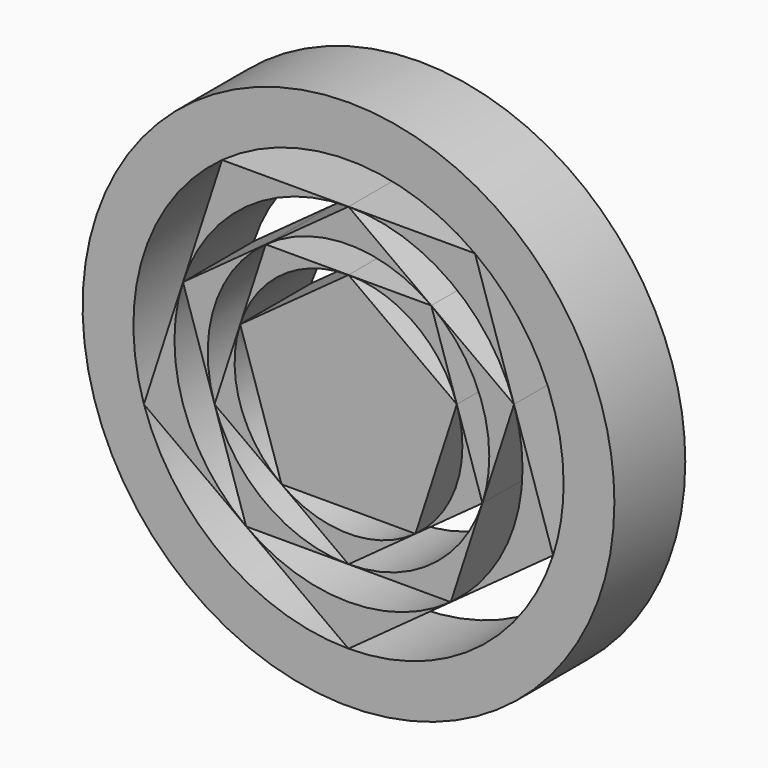
from build123d import *

# Parameters (mm, degrees)
F1_DEPTH = 25.4


with BuildPart() as f1:
    # F0 (on Front) → F1 (new body)
    with BuildSketch(Plane.XZ):
        with BuildLine():
            ThreePointArc((44.7892362247, -61.6470949714), (67.8946971432, -34.5940760802), (76.2, 0))
            ThreePointArc((76.2, 0), (75.2618515533, 11.9203062361), (72.4705065417, 23.5470949714))
            Line((72.4705065417, 23.5470949714), (58.6298713832, -19.05))
            Line((58.6298713832, -19.05), (44.7892362247, -61.6470949714))
        make_face()
        with BuildLine():
            Line((36.2352532708, 49.8735474857), (72.4705065417, 23.5470949714))
            ThreePointArc((72.4705065417, 23.5470949714), (44.7892362247, 61.6470949714), (0, 76.2))
            Line((0, 76.2), (36.2352532708, 49.8735474857))
        make_face()
        with BuildLine():
            Line((58.6298713832, -19.05), (72.4705065417, 23.5470949714))
            Line((72.4705065417, 23.5470949714), (36.2352532708, 49.8735474857))
            ThreePointArc((36.2352532708, 49.8735474857), (54.9279638168, 27.9871954535), (61.6470949714, 0))
            ThreePointArc((61.6470949714, 0), (60.8881169348, -9.6437303231), (58.6298713832, -19.05))
        make_face()
        with BuildLine():
            Line((0, -61.6470949714), (44.7892362247, -61.6470949714))
            Line((44.7892362247, -61.6470949714), (58.6298713832, -19.05))
            ThreePointArc((58.6298713832, -19.05), (36.2352532708, -49.8735474857), (0, -61.6470949714))
        make_face()
        with BuildLine():
            ThreePointArc((-44.7892362247, -61.6470949714), (0, -76.2), (44.7892362247, -61.6470949714))
            Line((44.7892362247, -61.6470949714), (0, -61.6470949714))
            Line((0, -61.6470949714), (-44.7892362247, -61.6470949714))
        make_face()
        with BuildLine():
            Line((-36.2352532708, 49.8735474857), (0, 76.2))
            ThreePointArc((0, 76.2), (-44.7892362247, 61.6470949714), (-72.4705065417, 23.5470949714))
            Line((-72.4705065417, 23.5470949714), (-36.2352532708, 49.8735474857))
        make_face()
        with BuildLine():
            Line((36.2352532708, 49.8735474857), (0, 76.2))
            Line((0, 76.2), (-36.2352532708, 49.8735474857))
            ThreePointArc((-36.2352532708, 49.8735474857), (0, 61.6470949714), (36.2352532708, 49.8735474857))
        make_face()
        with BuildLine():
            Line((-58.6298713832, -19.05), (-44.7892362247, -61.6470949714))
            Line((-44.7892362247, -61.6470949714), (0, -61.6470949714))
            ThreePointArc((0, -61.6470949714), (-36.2352532708, -49.8735474857), (-58.6298713832, -19.05))
        make_face()
        with BuildLine():
            ThreePointArc((-72.4705065417, 23.5470949714), (-72.4705065417, -23.5470949714), (-44.7892362247, -61.6470949714))
            Line((-44.7892362247, -61.6470949714), (-58.6298713832, -19.05))
            Line((-58.6298713832, -19.05), (-72.4705065417, 23.5470949714))
        make_face()
        with BuildLine():
            Line((-36.2352532708, 49.8735474857), (-72.4705065417, 23.5470949714))
            Line((-72.4705065417, 23.5470949714), (-58.6298713832, -19.05))
            ThreePointArc((-58.6298713832, -19.05), (-58.6298713832, 19.05), (-36.2352532708, 49.8735474857))
        make_face()
    extrude(amount=F1_DEPTH)


with BuildPart() as f1b:
    # F0 (on Front) → F1, piece 2 (new body)
    with BuildSketch(Plane.XZ):
        Polygon((31.0450150864, 10.0871368714), (0, 32.6426606143), (-31.0450150864, 10.0871368714), (-19.1868745047, -26.4084671786), (19.1868745047, -26.4084671786), align=None)
    extrude(amount=F1_DEPTH)


with BuildPart() as f1c:
    # F0 (on Front) → F1, piece 3 (new body)
    with BuildSketch(Plane.XZ):
        with BuildLine():
            Line((-31.0450150864, 10.0871368714), (-38.3737490093, -12.4683868714))
            Line((-38.3737490093, -12.4683868714), (-19.1868745047, -26.4084671786))
            ThreePointArc((-19.1868745047, -26.4084671786), (-31.0450150864, -10.0871368714), (-31.0450150864, 10.0871368714))
        make_face()
    extrude(amount=F1_DEPTH)


with BuildPart() as f1d:
    # F0 (on Front) → F1, piece 4 (new body)
    with BuildSketch(Plane.XZ):
        with BuildLine():
            Line((-19.1868745047, -26.4084671786), (0, -40.3485474857))
            Line((0, -40.3485474857), (19.1868745047, -26.4084671786))
            ThreePointArc((19.1868745047, -26.4084671786), (0, -32.6426606143), (-19.1868745047, -26.4084671786))
        make_face()
    extrude(amount=F1_DEPTH)


with BuildPart() as f1e:
    # F0 (on Front) → F1, piece 5 (new body)
    with BuildSketch(Plane.XZ):
        with BuildLine():
            Line((19.1868745047, -26.4084671786), (38.3737490093, -12.4683868714))
            Line((38.3737490093, -12.4683868714), (31.0450150864, 10.0871368714))
            ThreePointArc((31.0450150864, 10.0871368714), (32.2407752947, 5.1064371507), (32.6426606143, 0))
            ThreePointArc((32.6426606143, 0), (29.0848235742, -14.8194578051), (19.1868745047, -26.4084671786))
        make_face()
    extrude(amount=F1_DEPTH)


with BuildPart() as f1f:
    # F0 (on Front) → F1, piece 6 (new body)
    with BuildSketch(Plane.XZ):
        with BuildLine():
            Line((31.0450150864, 10.0871368714), (23.7162811635, 32.6426606143))
            Line((23.7162811635, 32.6426606143), (0, 32.6426606143))
            ThreePointArc((0, 32.6426606143), (19.1868745047, 26.4084671786), (31.0450150864, 10.0871368714))
        make_face()
    extrude(amount=F1_DEPTH)


with BuildPart() as f1g:
    # F0 (on Front) → F1, piece 7 (new body)
    with BuildSketch(Plane.XZ):
        with BuildLine():
            Line((0, 32.6426606143), (-23.7162811635, 32.6426606143))
            Line((-23.7162811635, 32.6426606143), (-31.0450150864, 10.0871368714))
            ThreePointArc((-31.0450150864, 10.0871368714), (-19.1868745047, 26.4084671786), (0, 32.6426606143))
        make_face()
    extrude(amount=F1_DEPTH)


with BuildPart() as f1h:
    # F0 (on Front) → F1, piece 8 (new body)
    with BuildSketch(Plane.XZ):
        with BuildLine():
            Line((-23.7162811635, 32.6426606143), (-47.432562327, 15.4117737428))
            Line((-47.432562327, 15.4117737428), (-38.3737490093, -12.4683868714))
            ThreePointArc((-38.3737490093, -12.4683868714), (-38.3737490093, 12.4683868714), (-23.7162811635, 32.6426606143))
        make_face()
    extrude(amount=F1_DEPTH)


with BuildPart() as f1i:
    # F0 (on Front) → F1, piece 9 (new body)
    with BuildSketch(Plane.XZ):
        with BuildLine():
            Line((-38.3737490093, -12.4683868714), (-29.3149356916, -40.3485474857))
            Line((-29.3149356916, -40.3485474857), (0, -40.3485474857))
            ThreePointArc((0, -40.3485474857), (-23.7162811635, -32.6426606143), (-38.3737490093, -12.4683868714))
        make_face()
    extrude(amount=F1_DEPTH)


with BuildPart() as f1j:
    # F0 (on Front) → F1, piece 10 (new body)
    with BuildSketch(Plane.XZ):
        with BuildLine():
            Line((0, -40.3485474857), (29.3149356916, -40.3485474857))
            Line((29.3149356916, -40.3485474857), (38.3737490093, -12.4683868714))
            ThreePointArc((38.3737490093, -12.4683868714), (23.7162811635, -32.6426606143), (0, -40.3485474857))
        make_face()
    extrude(amount=F1_DEPTH)


with BuildPart() as f1k:
    # F0 (on Front) → F1, piece 11 (new body)
    with BuildSketch(Plane.XZ):
        with BuildLine():
            Line((38.3737490093, -12.4683868714), (47.432562327, 15.4117737428))
            Line((47.432562327, 15.4117737428), (23.7162811635, 32.6426606143))
            ThreePointArc((23.7162811635, 32.6426606143), (35.9508190513, 18.3178572368), (40.3485474857, 0))
            ThreePointArc((40.3485474857, 0), (39.8517899116, -6.3119034411), (38.3737490093, -12.4683868714))
        make_face()
    extrude(amount=F1_DEPTH)


with BuildPart() as f1l:
    # F0 (on Front) → F1, piece 12 (new body)
    with BuildSketch(Plane.XZ):
        with BuildLine():
            Line((23.7162811635, 32.6426606143), (0, 49.8735474857))
            Line((0, 49.8735474857), (-23.7162811635, 32.6426606143))
            ThreePointArc((-23.7162811635, 32.6426606143), (0, 40.3485474857), (23.7162811635, 32.6426606143))
        make_face()
    extrude(amount=F1_DEPTH)


with BuildPart() as f1m:
    # F0 (on Front) → F1, piece 13 (new body)
    with BuildSketch(Plane.XZ):
        with BuildLine():
            Line((0, 49.8735474857), (-36.2352532708, 49.8735474857))
            Line((-36.2352532708, 49.8735474857), (-47.432562327, 15.4117737428))
            ThreePointArc((-47.432562327, 15.4117737428), (-29.3149356916, 40.3485474857), (0, 49.8735474857))
        make_face()
    extrude(amount=F1_DEPTH)


with BuildPart() as f1n:
    # F0 (on Front) → F1, piece 14 (new body)
    with BuildSketch(Plane.XZ):
        with BuildLine():
            Line((-47.432562327, 15.4117737428), (-58.6298713832, -19.05))
            Line((-58.6298713832, -19.05), (-29.3149356916, -40.3485474857))
            ThreePointArc((-29.3149356916, -40.3485474857), (-47.432562327, -15.4117737428), (-47.432562327, 15.4117737428))
        make_face()
    extrude(amount=F1_DEPTH)


with BuildPart() as f1o:
    # F0 (on Front) → F1, piece 15 (new body)
    with BuildSketch(Plane.XZ):
        with BuildLine():
            Line((-29.3149356916, -40.3485474857), (0, -61.6470949714))
            Line((0, -61.6470949714), (29.3149356916, -40.3485474857))
            ThreePointArc((29.3149356916, -40.3485474857), (0, -49.8735474857), (-29.3149356916, -40.3485474857))
        make_face()
    extrude(amount=F1_DEPTH)


with BuildPart() as f1p:
    # F0 (on Front) → F1, piece 16 (new body)
    with BuildSketch(Plane.XZ):
        with BuildLine():
            Line((29.3149356916, -40.3485474857), (58.6298713832, -19.05))
            Line((58.6298713832, -19.05), (47.432562327, 15.4117737428))
            ThreePointArc((47.432562327, 15.4117737428), (49.2595213557, 7.8019417206), (49.8735474857, 0))
            ThreePointArc((49.8735474857, 0), (44.4376561942, -22.6421167468), (29.3149356916, -40.3485474857))
        make_face()
    extrude(amount=F1_DEPTH)


with BuildPart() as f1q:
    # F0 (on Front) → F1, piece 17 (new body)
    with BuildSketch(Plane.XZ):
        with BuildLine():
            Line((47.432562327, 15.4117737428), (36.2352532708, 49.8735474857))
            Line((36.2352532708, 49.8735474857), (0, 49.8735474857))
            ThreePointArc((0, 49.8735474857), (29.3149356916, 40.3485474857), (47.432562327, 15.4117737428))
        make_face()
    extrude(amount=F1_DEPTH)


solid = Compound([f1.part, f1b.part, f1c.part, f1d.part, f1e.part, f1f.part, f1g.part, f1h.part, f1i.part, f1j.part, f1k.part, f1l.part, f1m.part, f1n.part, f1o.part, f1p.part, f1q.part])
